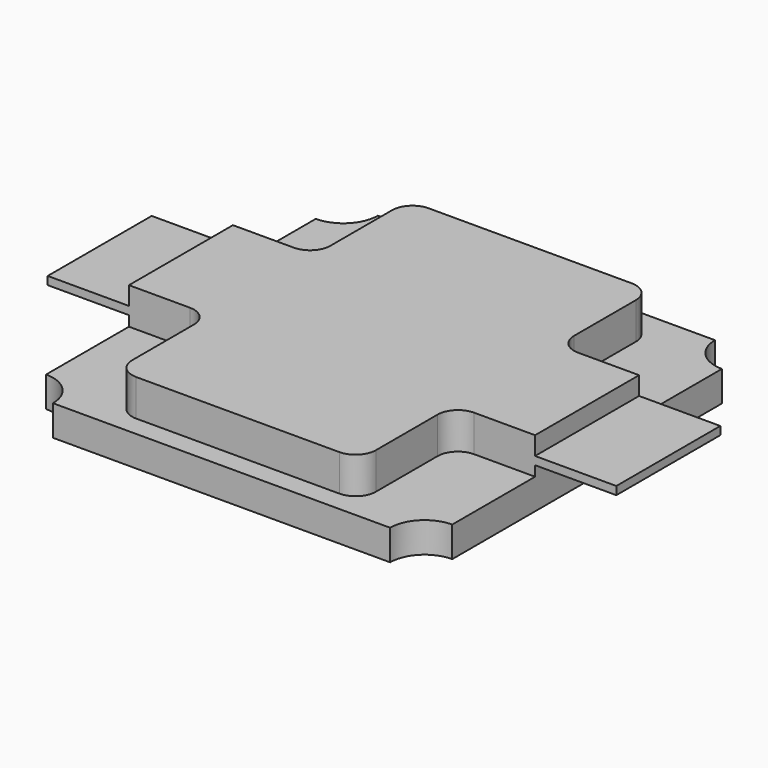
from build123d import *

# Parameters (mm, degrees)
F1_DEPTH = 1.5
F3_DEPTH = 1.8
F4_W     = 6.4
F4_H     = 0.4
F5_DEPTH = 4
F6_DEPTH = 24


with BuildPart() as f1:
    # F0 (on Top) → F1 (new body)
    with BuildSketch(Plane.XY):
        with BuildLine():
            Line((-8.3, -10), (8.3, -10))
            ThreePointArc((8.3, -10), (8.797918, -8.797918), (10, -8.3))
            Line((10, -8.3), (10, 8.3))
            ThreePointArc((10, 8.3), (8.797918, 8.797918), (8.3, 10))
            Line((8.3, 10), (-8.3, 10))
            ThreePointArc((-8.3, 10), (-8.797918, 8.797918), (-10, 8.3))
            Line((-10, 8.3), (-10, -8.3))
            ThreePointArc((-10, -8.3), (-8.797918, -8.797918), (-8.3, -10))
        make_face()
    extrude(amount=-F1_DEPTH)

    # F2 (on face) → F3 (join)
    with BuildSketch(Plane.XY):
        with BuildLine():
            Line((-5, -9), (5, -9))
            ThreePointArc((5, -9), (5.707107, -8.707107), (6, -8))
            Line((6, -8), (6, -4.2))
            ThreePointArc((6, -4.2), (6.292893, -3.492893), (7, -3.2))
            Line((7, -3.2), (10, -3.2))
            Line((10, -3.2), (10, 3.2))
            Line((10, 3.2), (7, 3.2))
            ThreePointArc((7, 3.2), (6.292893, 3.492893), (6, 4.2))
            Line((6, 4.2), (6, 8))
            ThreePointArc((6, 8), (5.707107, 8.707107), (5, 9))
            Line((5, 9), (-5, 9))
            ThreePointArc((-5, 9), (-5.707107, 8.707107), (-6, 8))
            Line((-6, 8), (-6, 4.2))
            ThreePointArc((-6, 4.2), (-6.292893, 3.492893), (-7, 3.2))
            Line((-7, 3.2), (-10, 3.2))
            Line((-10, 3.2), (-10, -3.2))
            Line((-10, -3.2), (-7, -3.2))
            ThreePointArc((-7, -3.2), (-6.292893, -3.492893), (-6, -4.2))
            Line((-6, -4.2), (-6, -8))
            ThreePointArc((-6, -8), (-5.707107, -8.707107), (-5, -9))
        make_face()
    extrude(amount=F3_DEPTH)

    # F4 (on face) → F5 (join)
    with BuildSketch(Plane(origin=(-10, 0, 0), x_dir=(0, -1, 0), z_dir=(-1, 0, 0))):
        with Locations((0, 0.7)):
            Rectangle(F4_W, F4_H)
    extrude(amount=F5_DEPTH)

    # F4 (on face) → F6 (join)
    with BuildSketch(Plane(origin=(-10, 0, 0), x_dir=(0, -1, 0), z_dir=(-1, 0, 0))):
        with Locations((0, 0.7)):
            Rectangle(F4_W, F4_H)
    extrude(amount=-F6_DEPTH)


solid = f1.part
